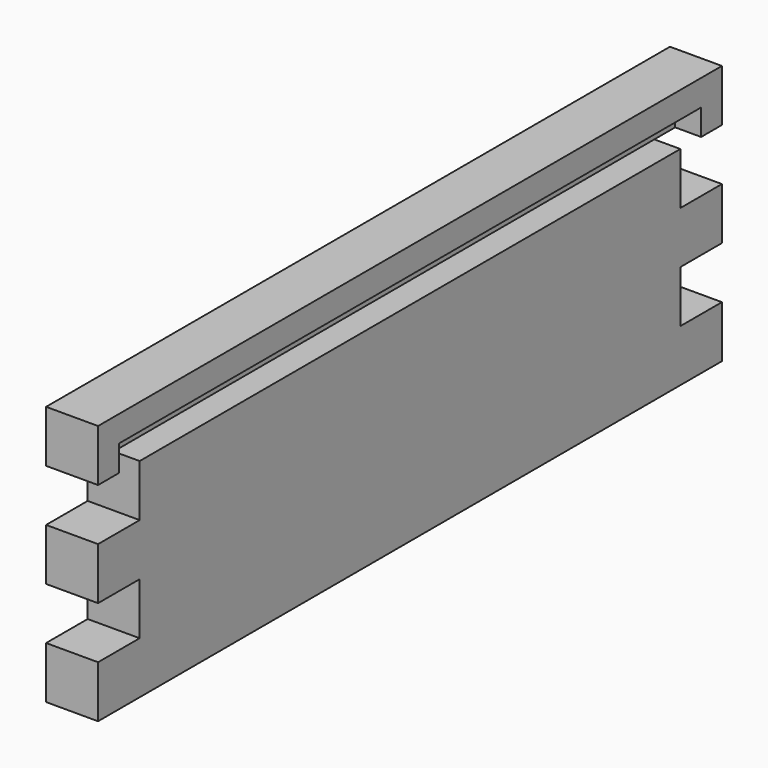
from build123d import *

# Parameters (mm, degrees)
F0_W     = 300
F0_H     = 100
F1_DEPTH = 20
F2_W     = 20
F2_H     = 20
F3_DEPTH = 20
F4_W     = 280
F4_H     = 10
F5_DEPTH = 10


with BuildPart() as f1:
    # F0 (on Right) → F1 (new body)
    with BuildSketch(Plane.YZ):
        Rectangle(F0_W, F0_H)
    extrude(amount=F1_DEPTH)

    # F2 (on face) → F3 (cut, through all)
    with BuildSketch(Plane(origin=(0, 0, 0), x_dir=(0, -1, 0), z_dir=(-1, 0, 0))):
        with Locations((140, -20)):
            Rectangle(F2_W, F2_H)
        with Locations((-140, -20)):
            Rectangle(F2_W, F2_H)
        with Locations((140, 20)):
            Rectangle(F2_W, F2_H)
        with Locations((-140, 20)):
            Rectangle(F2_W, F2_H)
    extrude(amount=-F3_DEPTH, mode=Mode.SUBTRACT)

    # F4 (on face) → F5 (cut)
    with BuildSketch(Plane.YZ.offset(20)):
        with Locations((0, 35)):
            Rectangle(F4_W, F4_H)
    extrude(amount=-F5_DEPTH, mode=Mode.SUBTRACT)


solid = f1.part
